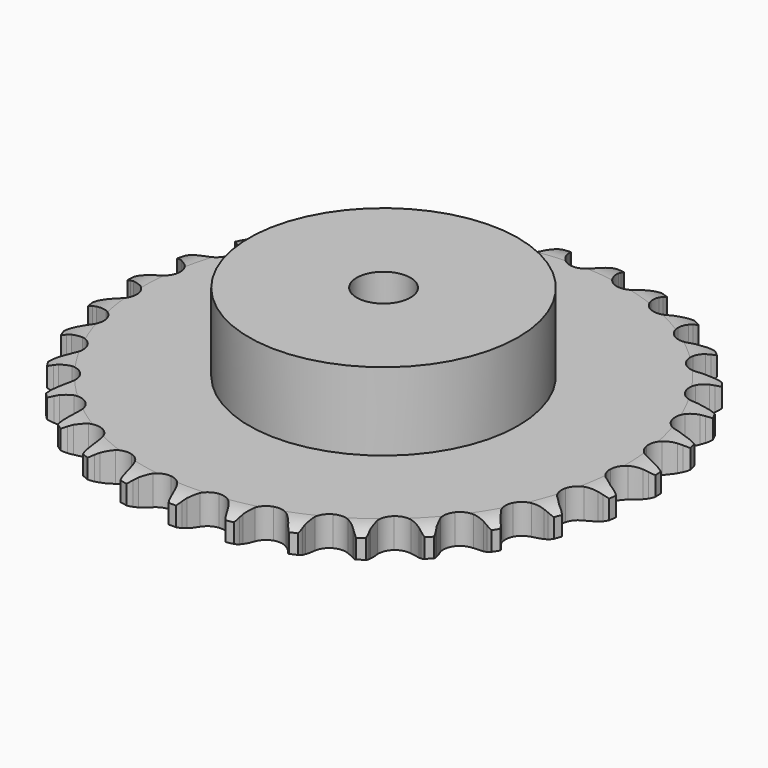
from build123d import *

# Parameters (mm, degrees)
PAD_DEPTH         = 11.1
SKETCH001_R       = 50
PAD001_DEPTH      = 40
SKETCH002_R       = 10
POCKET_DEPTH      = 0.001
POCKET_DEPTH_BACK = 40.001


with BuildPart() as part:
    # Sprocket → Pad (new body)
    with BuildSketch(Plane.XY):
        with BuildLine():
            ThreePointArc((-10.135506, 99.67057), (-8.654127, 97.94511), (-7.608377, 95.925678))
            Line((-7.608377, 95.925678), (-7.019676, 94.371168))
            ThreePointArc((-7.019676, 94.371168), (-6.086662, 92.351046), (-4.878425, 90.482473))
            ThreePointArc((-4.878425, 90.482473), (-2.726343, 88.689528), (0, 88.04675))
            ThreePointArc((0, 88.04675), (2.726343, 88.689528), (4.878425, 90.482473))
            ThreePointArc((4.878425, 90.482473), (6.086662, 92.351046), (7.019676, 94.371168))
            Line((7.019676, 94.371168), (7.608377, 95.925678))
            ThreePointArc((7.608377, 95.925678), (8.654127, 97.94511), (10.135506, 99.67057))
            ThreePointArc((10.135506, 99.67057), (11.239229, 97.68223), (11.857064, 95.493628))
            Line((11.857064, 95.493628), (12.120794, 93.852435))
            ThreePointArc((12.120794, 93.852435), (12.628061, 91.685851), (13.435425, 89.612311))
            ThreePointArc((13.435425, 89.612311), (15.182536, 87.422857), (17.72368, 86.244427))
            ThreePointArc((17.72368, 86.244427), (20.523605, 86.32524), (22.992551, 87.648272))
            Line((22.992551, 87.648272), (25.872759, 91.026334))
            ThreePointArc((25.872759, 91.026334), (26.299018, 91.740163), (26.76233, 92.430518))
            ThreePointArc((26.76233, 92.430518), (28.193182, 94.198104), (29.99157, 95.590046))
            ThreePointArc((29.99157, 95.590046), (30.67245, 93.420229), (30.837076, 91.152059))
            Line((30.837076, 91.152059), (30.765037, 89.491372))
            ThreePointArc((30.765037, 89.491372), (30.82579, 87.267026), (31.199226, 85.073411))
            ThreePointArc((31.199226, 85.073411), (32.469841, 82.577084), (34.721751, 80.911248))
            ThreePointArc((34.721751, 80.911248), (37.480629, 80.426785), (40.16536, 81.22574))
            Line((40.16536, 81.22574), (43.666608, 83.954872))
            ThreePointArc((43.666608, 83.954872), (44.227834, 84.568283), (44.82063, 85.151243))
            ThreePointArc((44.82063, 85.151243), (46.578005, 86.594618), (48.619776, 87.596053))
            ThreePointArc((48.619776, 87.596053), (48.849937, 85.333593), (48.554613, 83.078713))
            Line((48.554613, 83.078713), (48.149755, 81.466522))
            ThreePointArc((48.149755, 81.466522), (47.761507, 79.275479), (47.685728, 77.051595))
            ThreePointArc((47.685728, 77.051595), (48.427826, 74.350595), (50.298309, 72.265553))
            ThreePointArc((50.298309, 72.265553), (52.903191, 71.235649), (55.693794, 71.477817))
            Line((55.693794, 71.477817), (59.672742, 73.446287))
            ThreePointArc((59.672742, 73.446287), (60.345958, 73.934168), (61.043968, 74.385866))
            ThreePointArc((61.043968, 74.385866), (63.055919, 75.445937), (65.257482, 76.015868))
            ThreePointArc((65.257482, 76.015868), (65.027502, 73.753389), (64.284319, 71.604115))
            Line((64.284319, 71.604115), (63.563217, 70.106423))
            ThreePointArc((63.563217, 70.106423), (62.741863, 68.038385), (62.21997, 65.875278))
            ThreePointArc((62.21997, 65.875278), (62.40317, 63.080184), (63.815649, 60.661298))
            ThreePointArc((63.815649, 60.661298), (66.15989, 59.128117), (68.942117, 58.803583))
            Line((68.942117, 58.803583), (73.235866, 59.930802))
            ThreePointArc((73.235866, 59.930802), (73.993511, 60.273179), (74.768159, 60.575122))
            ThreePointArc((74.768159, 60.575122), (76.952316, 61.208491), (79.223539, 61.323584))
            ThreePointArc((79.223539, 61.323584), (78.542833, 59.153713), (77.382218, 57.198036))
            Line((77.382218, 57.198036), (76.374394, 55.876159))
            ThreePointArc((76.374394, 55.876159), (75.15356, 54.015791), (74.20692, 52.002019))
            ThreePointArc((74.20692, 52.002019), (73.823722, 49.227264), (74.720368, 46.573562))
            ThreePointArc((74.720368, 46.573562), (76.707996, 44.599873), (79.367942, 43.721924))
            Line((79.367942, 43.721924), (83.800705, 43.961744))
            ThreePointArc((83.800705, 43.961744), (84.611762, 44.144599), (85.431333, 44.284426))
            ThreePointArc((85.431333, 44.284426), (87.698277, 44.465163), (89.946175, 44.120705))
            ThreePointArc((89.946175, 44.120705), (88.842611, 42.132277), (87.31208, 40.450263))
            Line((87.31208, 40.450263), (86.058794, 39.358318))
            ThreePointArc((86.058794, 39.358318), (84.488461, 37.781784), (83.155829, 35.999792))
            ThreePointArc((83.155829, 35.999792), (82.221921, 33.358973), (82.566027, 30.579099))
            ThreePointArc((82.566027, 30.579099), (84.115667, 28.245705), (86.544434, 26.850285))
            Line((86.544434, 26.850285), (90.934734, 26.192886))
            ThreePointArc((90.934734, 26.192886), (91.765996, 26.208734), (92.596938, 26.18072))
            ThreePointArc((92.596938, 26.18072), (94.853859, 25.901425), (96.986405, 25.11152))
            ThreePointArc((96.986405, 25.11152), (95.505163, 23.385941), (93.667374, 22.046451))
            Line((93.667374, 22.046451), (92.219936, 21.229143))
            ThreePointArc((92.219936, 21.229143), (90.364394, 20.000987), (88.700329, 18.523728))
            ThreePointArc((88.700329, 18.523728), (87.253945, 16.124962), (87.031423, 13.332724))
            ThreePointArc((87.031423, 13.332724), (88.079633, 10.735155), (90.177787, 8.879391))
            Line((90.177787, 8.879391), (94.345884, 7.351689))
            ThreePointArc((94.345884, 7.351689), (95.163321, 7.199881), (95.971613, 7.005173))
            ThreePointArc((95.971613, 7.005173), (98.126114, 6.27728), (100.055999, 5.074266))
            ThreePointArc((100.055999, 5.074266), (98.257722, 3.682181), (96.187916, 2.740055))
            Line((96.187916, 2.740055), (94.605584, 2.230845))
            ThreePointArc((94.605584, 2.230845), (92.540799, 1.401347), (90.613427, 0.289301))
            ThreePointArc((90.613427, 0.289301), (88.713783, -1.769207), (87.933742, -4.459495))
            ThreePointArc((87.933742, -4.459495), (88.437609, -7.214894), (90.119251, -9.455026))
            Line((90.119251, -9.455026), (93.894502, -11.790487))
            ThreePointArc((93.894502, -11.790487), (94.664647, -12.103737), (95.4172, -12.457167))
            ThreePointArc((95.4172, -12.457167), (97.381073, -13.603858), (99.029289, -15.170729))
            ThreePointArc((99.029289, -15.170729), (96.987598, -16.172327), (94.770512, -16.678519))
            Line((94.770512, -16.678519), (93.118068, -16.858785))
            ThreePointArc((93.118068, -16.858785), (90.928572, -17.255665), (88.816801, -17.956969))
            ThreePointArc((88.816801, -17.956969), (86.541668, -19.590945), (85.236044, -22.069141))
            ThreePointArc((85.236044, -22.069141), (85.174938, -24.869565), (86.371222, -27.402353))
            Line((86.371222, -27.402353), (89.599069, -30.44996))
            ThreePointArc((89.599069, -30.44996), (90.290392, -30.911826), (90.956395, -31.409509))
            ThreePointArc((90.956395, -31.409509), (92.649241, -32.928052), (93.948308, -34.794633))
            ThreePointArc((93.948308, -34.794633), (91.746791, -35.364739), (89.473193, -35.414272))
            Line((89.473193, -35.414272), (87.818287, -35.258214))
            ThreePointArc((87.818287, -35.258214), (85.593719, -35.206227), (83.384005, -35.46808))
            ThreePointArc((83.384005, -35.46808), (80.826526, -36.610627), (79.048771, -38.775274))
            ThreePointArc((79.048771, -38.775274), (78.425196, -41.506072), (79.087145, -44.227824))
            Line((79.087145, -44.227824), (81.635439, -47.862807))
            ThreePointArc((81.635439, -47.862807), (82.219637, -48.454381), (82.771824, -49.075942))
            ThreePointArc((82.771824, -49.075942), (84.124337, -50.904168), (85.021073, -52.99404))
            ThreePointArc((85.021073, -52.99404), (82.749859, -53.109314), (80.512831, -52.700162))
            Line((80.512831, -52.700162), (78.923215, -52.214167))
            ThreePointArc((78.923215, -52.214167), (76.754649, -51.715443), (74.537457, -51.527123))
            ThreePointArc((74.537457, -51.527123), (71.802338, -52.131465), (69.625233, -53.893942))
            ThreePointArc((69.625233, -53.893942), (68.464716, -56.443316), (68.565231, -59.242603))
            Line((68.565231, -59.242603), (70.329644, -63.316146))
            ThreePointArc((70.329644, -63.316146), (70.782801, -64.013209), (71.198566, -64.733201))
            ThreePointArc((71.198566, -64.733201), (72.155373, -66.796261), (72.613065, -69.023865))
            ThreePointArc((72.613065, -69.023865), (70.365138, -68.679587), (68.256264, -67.8285))
            Line((68.256264, -67.8285), (66.797018, -67.032467))
            ThreePointArc((66.797018, -67.032467), (64.773235, -66.107422), (62.639338, -65.476639))
            ThreePointArc((62.639338, -65.476639), (59.838553, -65.518035), (57.35123, -66.806186))
            ThreePointArc((57.35123, -66.806186), (55.701283, -69.069764), (55.236248, -71.831983))
            Line((55.236248, -71.831983), (56.144546, -76.177314))
            ThreePointArc((56.144546, -76.177314), (56.448109, -76.951328), (56.710429, -77.740274))
            ThreePointArc((56.710429, -77.740274), (57.23236, -79.953708), (57.232269, -82.227845))
            ThreePointArc((57.232269, -82.227845), (55.099661, -81.43811), (53.205278, -80.179932))
            Line((53.205278, -80.179932), (51.936143, -79.106449))
            ThreePointArc((51.936143, -79.106449), (50.139997, -77.792956), (48.176756, -76.745535))
            ThreePointArc((48.176756, -76.745535), (45.424971, -76.222289), (42.72926, -76.983378))
            ThreePointArc((42.72926, -76.983378), (40.657434, -78.868488), (39.645887, -81.480553))
            Line((39.645887, -81.480553), (39.660883, -85.919774))
            ThreePointArc((39.660883, -85.919774), (39.802425, -86.73905), (39.900561, -87.564652))
            ThreePointArc((39.900561, -87.564652), (39.966247, -89.83784), (39.508378, -92.065407))
            ThreePointArc((39.508378, -92.065407), (37.578396, -90.862547), (35.976061, -89.248787))
            Line((35.976061, -89.248787), (34.948996, -87.941804))
            ThreePointArc((34.948996, -87.941804), (33.454021, -86.293636), (31.741812, -84.872459))
            ThreePointArc((31.741812, -84.872459), (29.151685, -83.805994), (26.35795, -84.00886))
            ThreePointArc((26.35795, -84.00886), (23.949064, -85.438327), (22.432419, -87.7933))
            Line((22.432419, -87.7933), (21.553499, -92.144668))
            ThreePointArc((21.553499, -92.144668), (21.527224, -92.975666), (21.45716, -93.804122))
            ThreePointArc((21.45716, -93.804122), (21.063911, -96.044001), (20.167009, -98.133801))
            ThreePointArc((20.167009, -98.133801), (18.518668, -96.567061), (17.27398, -94.663787))
            Line((17.27398, -94.663787), (16.531033, -93.176811))
            ThreePointArc((16.531033, -93.176811), (15.398434, -91.261445), (14.007355, -89.524694))
            ThreePointArc((14.007355, -89.524694), (11.684925, -87.958671), (8.907542, -87.59501))
            ThreePointArc((8.907542, -87.59501), (6.260216, -88.51031), (4.300565, -90.511779))
            Line((4.300565, -90.511779), (2.563713, -94.597149))
            ThreePointArc((2.563713, -94.597149), (2.370697, -95.405847), (2.135299, -96.203241))
            ThreePointArc((2.135299, -96.203241), (1.299217, -98.318108), (0, -100.184585))
            ThreePointArc((0, -100.184585), (-1.299217, -98.318108), (-2.135299, -96.203241))
            Line((-2.135299, -96.203241), (-2.563713, -94.597149))
            ThreePointArc((-2.563713, -94.597149), (-3.287567, -92.493), (-4.300565, -90.511779))
            ThreePointArc((-4.300565, -90.511779), (-6.260216, -88.51031), (-8.907542, -87.59501))
            ThreePointArc((-8.907542, -87.59501), (-11.684925, -87.958671), (-14.007355, -89.524694))
            Line((-14.007355, -89.524694), (-16.531033, -93.176811))
            ThreePointArc((-16.531033, -93.176811), (-16.882887, -93.930101), (-17.27398, -94.663787))
            ThreePointArc((-17.27398, -94.663787), (-18.518668, -96.567061), (-20.167009, -98.133801))
            ThreePointArc((-20.167009, -98.133801), (-21.063911, -96.044001), (-21.45716, -93.804122))
            Line((-21.45716, -93.804122), (-21.553499, -92.144668))
            ThreePointArc((-21.553499, -92.144668), (-21.838974, -89.937881), (-22.432419, -87.7933))
            ThreePointArc((-22.432419, -87.7933), (-23.949064, -85.438327), (-26.35795, -84.00886))
            ThreePointArc((-26.35795, -84.00886), (-29.151685, -83.805994), (-31.741812, -84.872459))
            Line((-31.741812, -84.872459), (-34.948996, -87.941804))
            ThreePointArc((-34.948996, -87.941804), (-35.445284, -88.608847), (-35.976061, -89.248787))
            ThreePointArc((-35.976061, -89.248787), (-37.578396, -90.862547), (-39.508378, -92.065407))
            ThreePointArc((-39.508378, -92.065407), (-39.966247, -89.83784), (-39.900561, -87.564652))
            Line((-39.900561, -87.564652), (-39.660883, -85.919774))
            ThreePointArc((-39.660883, -85.919774), (-39.496291, -83.700694), (-39.645887, -81.480553))
            ThreePointArc((-39.645887, -81.480553), (-40.657434, -78.868488), (-42.72926, -76.983378))
            ThreePointArc((-42.72926, -76.983378), (-45.424971, -76.222289), (-48.176756, -76.745535))
            Line((-48.176756, -76.745535), (-51.936143, -79.106449))
            ThreePointArc((-51.936143, -79.106449), (-52.556547, -79.659935), (-53.205278, -80.179932))
            ThreePointArc((-53.205278, -80.179932), (-55.099661, -81.43811), (-57.232269, -82.227845))
            ThreePointArc((-57.232269, -82.227845), (-57.23236, -79.953708), (-56.710429, -77.740274))
            Line((-56.710429, -77.740274), (-56.144546, -76.177314))
            ThreePointArc((-56.144546, -76.177314), (-55.536626, -74.036791), (-55.236248, -71.831983))
            ThreePointArc((-55.236248, -71.831983), (-55.701283, -69.069764), (-57.35123, -66.806186))
            ThreePointArc((-57.35123, -66.806186), (-59.838553, -65.518035), (-62.639338, -65.476639))
            Line((-62.639338, -65.476639), (-66.797018, -67.032467))
            ThreePointArc((-66.797018, -67.032467), (-67.516138, -67.449736), (-68.256264, -67.8285))
            ThreePointArc((-68.256264, -67.8285), (-70.365138, -68.679587), (-72.613065, -69.023865))
            ThreePointArc((-72.613065, -69.023865), (-72.155373, -66.796261), (-71.198566, -64.733201))
            Line((-71.198566, -64.733201), (-70.329644, -63.316146))
            ThreePointArc((-70.329644, -63.316146), (-69.303284, -61.341813), (-68.565231, -59.242603))
            ThreePointArc((-68.565231, -59.242603), (-68.464716, -56.443316), (-69.625233, -53.893942))
            ThreePointArc((-69.625233, -53.893942), (-71.802338, -52.131465), (-74.537457, -51.527123))
            Line((-74.537457, -51.527123), (-78.923215, -52.214167))
            ThreePointArc((-78.923215, -52.214167), (-79.711611, -52.478138), (-80.512831, -52.700162))
            ThreePointArc((-80.512831, -52.700162), (-82.749859, -53.109314), (-85.021073, -52.99404))
            ThreePointArc((-85.021073, -52.99404), (-84.124337, -50.904168), (-82.771824, -49.075942))
            Line((-82.771824, -49.075942), (-81.635439, -47.862807))
            ThreePointArc((-81.635439, -47.862807), (-80.232658, -46.135494), (-79.087145, -44.227824))
            ThreePointArc((-79.087145, -44.227824), (-78.425196, -41.506072), (-79.048771, -38.775274))
            ThreePointArc((-79.048771, -38.775274), (-80.826526, -36.610627), (-83.384005, -35.46808))
            Line((-83.384005, -35.46808), (-87.818287, -35.258214))
            ThreePointArc((-87.818287, -35.258214), (-88.643681, -35.358078), (-89.473193, -35.414272))
            ThreePointArc((-89.473193, -35.414272), (-91.746791, -35.364739), (-93.948308, -34.794633))
            ThreePointArc((-93.948308, -34.794633), (-92.649241, -32.928052), (-90.956395, -31.409509))
            Line((-90.956395, -31.409509), (-89.599069, -30.44996))
            ThreePointArc((-89.599069, -30.44996), (-87.877297, -29.040382), (-86.371222, -27.402353))
            ThreePointArc((-86.371222, -27.402353), (-85.174938, -24.869565), (-85.236044, -22.069141))
            ThreePointArc((-85.236044, -22.069141), (-86.541668, -19.590945), (-88.816801, -17.956969))
            Line((-88.816801, -17.956969), (-93.118068, -16.858785))
            ThreePointArc((-93.118068, -16.858785), (-93.946668, -16.790454), (-94.770512, -16.678519))
            ThreePointArc((-94.770512, -16.678519), (-96.987598, -16.172327), (-99.029289, -15.170729))
            ThreePointArc((-99.029289, -15.170729), (-97.381073, -13.603858), (-95.4172, -12.457167))
            Line((-95.4172, -12.457167), (-93.894502, -11.790487))
            ThreePointArc((-93.894502, -11.790487), (-91.92423, -10.756354), (-90.119251, -9.455026))
            ThreePointArc((-90.119251, -9.455026), (-88.437609, -7.214894), (-87.933742, -4.459495))
            ThreePointArc((-87.933742, -4.459495), (-88.713783, -1.769207), (-90.613427, 0.289301))
            Line((-90.613427, 0.289301), (-94.605584, 2.230845))
            ThreePointArc((-94.605584, 2.230845), (-95.403468, 2.464573), (-96.187916, 2.740055))
            ThreePointArc((-96.187916, 2.740055), (-98.257722, 3.682181), (-100.055999, 5.074266))
            ThreePointArc((-100.055999, 5.074266), (-98.126114, 6.27728), (-95.971613, 7.005173))
            Line((-95.971613, 7.005173), (-94.345884, 7.351689))
            ThreePointArc((-94.345884, 7.351689), (-92.207774, 7.968041), (-90.177787, 8.879391))
            ThreePointArc((-90.177787, 8.879391), (-88.079633, 10.735155), (-87.031423, 13.332724))
            ThreePointArc((-87.031423, 13.332724), (-87.253945, 16.124962), (-88.700329, 18.523728))
            Line((-88.700329, 18.523728), (-92.219936, 21.229143))
            ThreePointArc((-92.219936, 21.229143), (-92.954439, 21.6187), (-93.667374, 22.046451))
            ThreePointArc((-93.667374, 22.046451), (-95.505163, 23.385941), (-96.986405, 25.11152))
            ThreePointArc((-96.986405, 25.11152), (-94.853859, 25.901425), (-92.596938, 26.18072))
            Line((-92.596938, 26.18072), (-90.934734, 26.192886))
            ThreePointArc((-90.934734, 26.192886), (-88.71632, 26.366223), (-86.544434, 26.850285))
            ThreePointArc((-86.544434, 26.850285), (-84.115667, 28.245705), (-82.566027, 30.579099))
            ThreePointArc((-82.566027, 30.579099), (-82.221921, 33.358973), (-83.155829, 35.999792))
            Line((-83.155829, 35.999792), (-86.058794, 39.358318))
            ThreePointArc((-86.058794, 39.358318), (-86.699844, 39.887755), (-87.31208, 40.450263))
            ThreePointArc((-87.31208, 40.450263), (-88.842611, 42.132277), (-89.946175, 44.120705))
            ThreePointArc((-89.946175, 44.120705), (-87.698277, 44.465163), (-85.431333, 44.284426))
            Line((-85.431333, 44.284426), (-83.800705, 43.961744))
            ThreePointArc((-83.800705, 43.961744), (-81.59281, 43.684969), (-79.367942, 43.721924))
            ThreePointArc((-79.367942, 43.721924), (-76.707996, 44.599873), (-74.720368, 46.573562))
            ThreePointArc((-74.720368, 46.573562), (-73.823722, 49.227264), (-74.20692, 52.002019))
            Line((-74.20692, 52.002019), (-76.374394, 55.876159))
            ThreePointArc((-76.374394, 55.876159), (-76.895747, 56.5238), (-77.382218, 57.198036))
            ThreePointArc((-77.382218, 57.198036), (-78.542833, 59.153713), (-79.223539, 61.323584))
            ThreePointArc((-79.223539, 61.323584), (-76.952316, 61.208491), (-74.768159, 60.575122))
            Line((-74.768159, 60.575122), (-73.235866, 59.930802))
            ThreePointArc((-73.235866, 59.930802), (-71.128881, 59.215247), (-68.942117, 58.803583))
            ThreePointArc((-68.942117, 58.803583), (-66.15989, 59.128117), (-63.815649, 60.661298))
            ThreePointArc((-63.815649, 60.661298), (-62.40317, 63.080184), (-62.21997, 65.875278))
            Line((-62.21997, 65.875278), (-63.563217, 70.106423))
            ThreePointArc((-63.563217, 70.106423), (-63.943529, 70.845755), (-64.284319, 71.604115))
            ThreePointArc((-64.284319, 71.604115), (-65.027502, 73.753389), (-65.257482, 76.015868))
            ThreePointArc((-65.257482, 76.015868), (-63.055919, 75.445937), (-61.043968, 74.385866))
            Line((-61.043968, 74.385866), (-59.672742, 73.446287))
            ThreePointArc((-59.672742, 73.446287), (-57.752927, 72.321246), (-55.693794, 71.477817))
            ThreePointArc((-55.693794, 71.477817), (-52.903191, 71.235649), (-50.298309, 72.265553))
            ThreePointArc((-50.298309, 72.265553), (-48.427826, 74.350595), (-47.685728, 77.051595))
            Line((-47.685728, 77.051595), (-48.149755, 81.466522))
            ThreePointArc((-48.149755, 81.466522), (-48.373455, 82.267276), (-48.554613, 83.078713))
            ThreePointArc((-48.554613, 83.078713), (-48.849937, 85.333593), (-48.619776, 87.596053))
            ThreePointArc((-48.619776, 87.596053), (-46.578005, 86.594618), (-44.82063, 85.151243))
            Line((-44.82063, 85.151243), (-43.666608, 83.954872))
            ThreePointArc((-43.666608, 83.954872), (-42.012562, 82.466404), (-40.16536, 81.22574))
            ThreePointArc((-40.16536, 81.22574), (-37.480629, 80.426785), (-34.721751, 80.911248))
            ThreePointArc((-34.721751, 80.911248), (-32.469841, 82.577084), (-31.199226, 85.073411))
            Line((-31.199226, 85.073411), (-30.765037, 89.491372))
            ThreePointArc((-30.765037, 89.491372), (-30.822967, 90.320765), (-30.837076, 91.152059))
            ThreePointArc((-30.837076, 91.152059), (-30.67245, 93.420229), (-29.99157, 95.590046))
            ThreePointArc((-29.99157, 95.590046), (-28.193182, 94.198104), (-26.76233, 92.430518))
            Line((-26.76233, 92.430518), (-25.872759, 91.026334))
            ThreePointArc((-25.872759, 91.026334), (-24.552197, 89.235379), (-22.992551, 87.648272))
            ThreePointArc((-22.992551, 87.648272), (-20.523605, 86.32524), (-17.72368, 86.244427))
            ThreePointArc((-17.72368, 86.244427), (-15.182536, 87.422857), (-13.435425, 89.612311))
            Line((-13.435425, 89.612311), (-12.120794, 93.852435))
            ThreePointArc((-12.120794, 93.852435), (-12.010583, 94.676511), (-11.857064, 95.493628))
            ThreePointArc((-11.857064, 95.493628), (-11.239229, 97.68223), (-10.135506, 99.67057))
        make_face()
    extrude(amount=PAD_DEPTH)

    # Sketch → Groove (revolve, cut)
    with BuildSketch(Plane.XZ):
        with BuildLine():
            Line((89.664719, 0), (98.15, 0))
            Line((106.635281, 0), (98.15, 0))
            Line((106.635281, 11.1), (106.635281, 0))
            Line((98.15, 11.1), (106.635281, 11.1))
            Line((89.664719, 11.1), (98.15, 11.1))
            ThreePointArc((98.15, 9.1), (94.023618, 10.593242), (89.664719, 11.1))
            Line((98.15, 2), (98.15, 9.1))
            ThreePointArc((89.664719, 0), (94.023618, 0.506758), (98.15, 2))
        make_face()
    revolve(axis=Axis((0, 0, 0), (0, 0, 1)), mode=Mode.SUBTRACT)

    # Sketch001 → Pad001 (join)
    with BuildSketch(Plane.XY):
        Circle(SKETCH001_R)
    extrude(amount=PAD001_DEPTH)

    # Sketch002 → Pocket (cut, two sides)
    with BuildSketch(Plane.XY) as pocket_sk:
        Circle(SKETCH002_R)
    extrude(amount=-POCKET_DEPTH, mode=Mode.SUBTRACT)
    extrude(pocket_sk.sketch, amount=POCKET_DEPTH_BACK, mode=Mode.SUBTRACT)


solid = part.part
